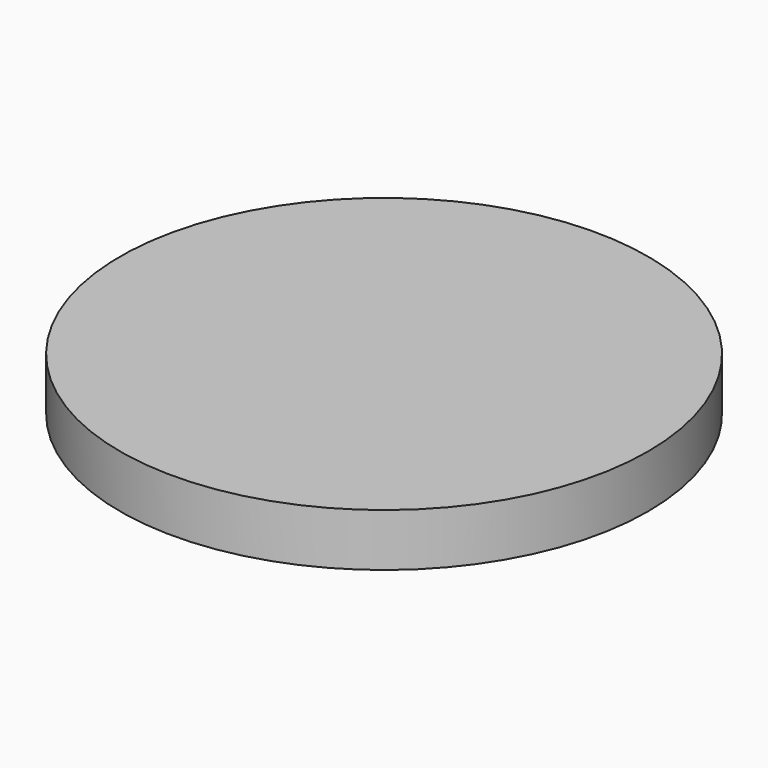
from build123d import *

# Parameters (mm, degrees)
F0_R     = 25
F0_R_2   = 20
F0_R_3   = 15
F1_DEPTH = 5


with BuildPart() as f1:
    # F0 (on Top) → F1 (new body)
    with BuildSketch(Plane.XY):
        Circle(F0_R)
        Circle(F0_R_2, mode=Mode.SUBTRACT)
        Circle(F0_R_2)
        Circle(F0_R_3, mode=Mode.SUBTRACT)
        Circle(F0_R_3)
    extrude(amount=F1_DEPTH)


solid = f1.part
